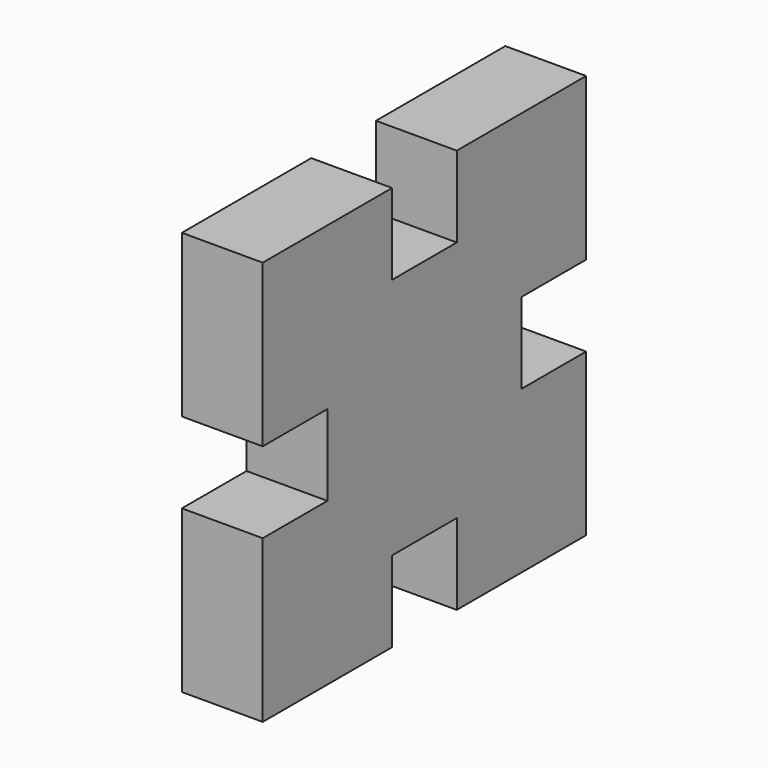
from build123d import *

# Parameters (mm, degrees)
F1_DEPTH = 10


with BuildPart() as f1:
    # F0 (on Right) → F1 (new body)
    with BuildSketch(Plane.YZ):
        Polygon((-30, 50), (-50, 50), (-50, 30), (-40, 30), (-40, 20), (-50, 20), (-50, 0), (-30, 0), (-30, 10), (-20, 10), (-20, 0), (0, 0), (0, 20), (-10, 20), (-10, 30), (0, 30), (0, 50), (-20, 50), (-20, 40), (-30, 40), align=None)
    extrude(amount=F1_DEPTH)


solid = f1.part
